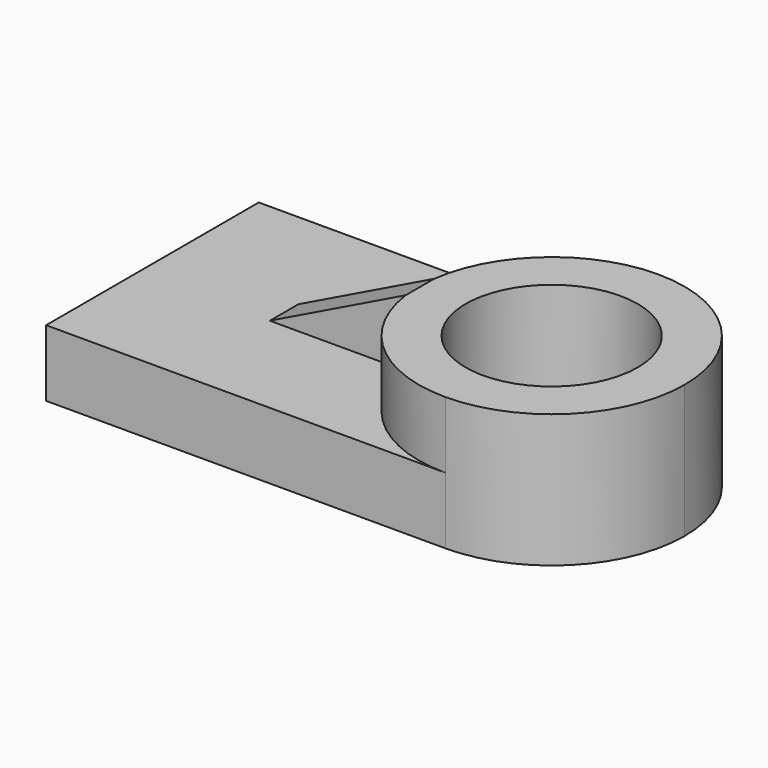
from build123d import *

# Parameters (mm, degrees)
F0_R     = 16.413016
F1_DEPTH = 25.4
F2_DEPTH = 12.7
F4_DEPTH = 12.7
F6_DEPTH = 508


with BuildPart() as f1:
    # F0 (on Top) → F1 (new body)
    with BuildSketch(Plane.XY):
        with BuildLine():
            ThreePointArc((38.069274, 25.34879), (12.720484, 0), (38.069274, -25.34879))
            ThreePointArc((38.069274, -25.34879), (55.993576, -17.924301), (63.418064, 0))
            ThreePointArc((63.418064, 0), (55.993576, 17.924301), (38.069274, 25.34879))
        make_face()
        with Locations((38.069274, 0)):
            Circle(F0_R, mode=Mode.SUBTRACT)
    extrude(amount=F1_DEPTH)

    # F0 (on Top) → F2 (join)
    with BuildSketch(Plane.XY):
        with BuildLine():
            Line((-38.069274, 25.34879), (-38.069274, -25.34879))
            Line((-38.069274, -25.34879), (38.069274, -25.34879))
            ThreePointArc((38.069274, -25.34879), (12.720484, 0), (38.069274, 25.34879))
            Line((38.069274, 25.34879), (-38.069274, 25.34879))
        make_face()
    extrude(amount=F2_DEPTH)

    # F3 (on face) → F4 (join)
    with BuildSketch(Plane.XY.offset(12.7)):
        with BuildLine():
            ThreePointArc((12.950446, -3.406704), (12.720484, 0), (12.950446, 3.406704))
            Line((12.950446, 3.406704), (-12.950446, 3.406704))
            Line((-12.950446, 3.406704), (-12.950446, -3.406704))
            Line((-12.950446, -3.406704), (12.950446, -3.406704))
        make_face()
    extrude(amount=F4_DEPTH)

    # F5 (on face) → F6 (cut)
    with BuildSketch(Plane.XZ.offset(3.406704)):
        Polygon((-12.950446, 25.4), (-12.950446, 12.7), (12.950446, 25.4), align=None)
    extrude(amount=-F6_DEPTH, mode=Mode.SUBTRACT)


solid = f1.part
